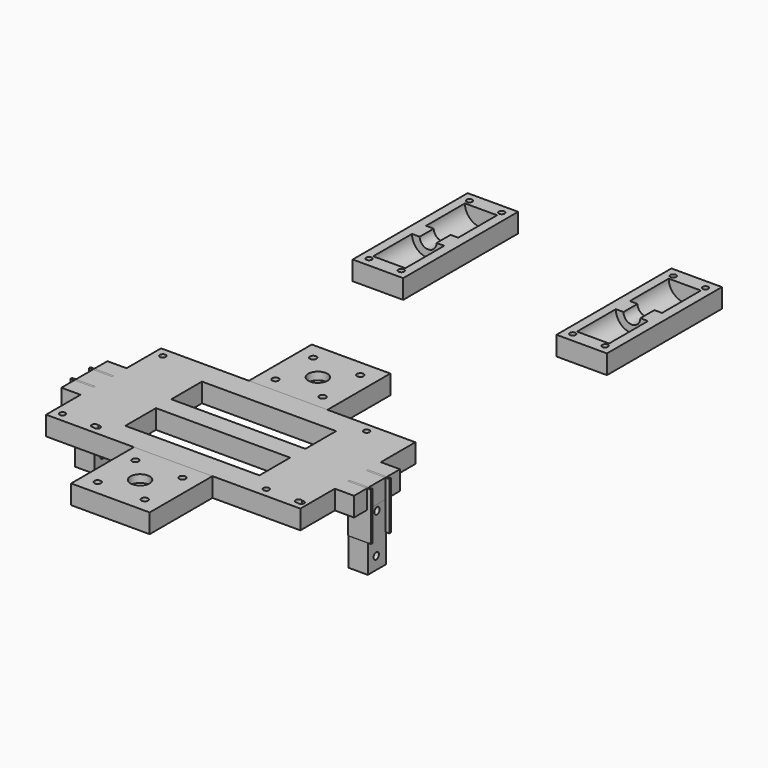
from build123d import *

# Parameters (mm, degrees)
CYLINDER013_R           = 1.5
CYLINDER013_DEPTH       = 10
CYLINDER012_R           = 1.5
CYLINDER012_DEPTH       = 10
CYLINDER011_R           = 1.5
CYLINDER011_DEPTH       = 10
CYLINDER010_R           = 1.5
CYLINDER010_DEPTH       = 10
CYLINDER009_R           = 8.4
CYLINDER009_DEPTH       = 25.35
CYLINDER009_ROLL_ANGLE  = 90
CYLINDER008_R           = 4.4
CYLINDER008_DEPTH       = 9.5
CYLINDER008_ROLL_ANGLE  = 90
CYLINDER007_R           = 8.4
CYLINDER007_DEPTH       = 25.35
CYLINDER007_ROLL_ANGLE  = 90
BOX010_W                = 26.35
BOX010_H                = 75
BOX010_DEPTH            = 10
CUT017_PLACEMENT_ANGLE  = 180
ARRAY001_X_COUNT        = 2
ARRAY001_X_PITCH        = 106.35
BOX012_W                = 36
BOX012_H                = 36
BOX012_DEPTH            = 6
CYLINDER018_R           = 5
CYLINDER018_DEPTH       = 10
CYLINDER017_R           = 1.7
CYLINDER017_DEPTH       = 10
CYLINDER016_R           = 1.7
CYLINDER016_DEPTH       = 10
CYLINDER014_R           = 1.7
CYLINDER014_DEPTH       = 10
CYLINDER015_R           = 1.7
CYLINDER015_DEPTH       = 10
BOX011_W                = 41
BOX011_H                = 41
BOX011_DEPTH            = 10
ARRAY002_Y_COUNT        = 2
ARRAY002_Y_PITCH        = 116
BOX007_W                = 10
BOX007_H                = 30
BOX007_DEPTH            = 10
BOX006_W                = 10
BOX006_H                = 30
BOX006_DEPTH            = 10
CYLINDER001_R           = 1.5
CYLINDER001_DEPTH       = 10
CYLINDER006_R           = 4.4
CYLINDER006_DEPTH       = 9.5
CYLINDER006_ROLL_ANGLE  = 90
CYLINDER005_R           = 8.4
CYLINDER005_DEPTH       = 25.35
CYLINDER005_ROLL_ANGLE  = 90
CYLINDER004_R           = 8.4
CYLINDER004_DEPTH       = 25.35
CYLINDER004_ROLL_ANGLE  = 90
CYLINDER003_R           = 1.5
CYLINDER003_DEPTH       = 10
CYLINDER002_R           = 1.5
CYLINDER002_DEPTH       = 10
CYLINDER_R              = 1.5
CYLINDER_DEPTH          = 10
BOX_W                   = 26.35
BOX_H                   = 75
BOX_DEPTH               = 10
ARRAY_X_COUNT           = 2
ARRAY_X_PITCH           = 106.35
BOX003_W                = 70
BOX003_H                = 20
BOX003_DEPTH            = 10
BOX002_W                = 70
BOX002_H                = 20
BOX002_DEPTH            = 10
BOX001_W                = 80
BOX001_H                = 75
BOX001_DEPTH            = 10
BOX018_W                = 12
BOX018_H                = 1
BOX018_DEPTH            = 25
BOX017_W                = 12
BOX017_H                = 1
BOX017_DEPTH            = 25
BOX014_W                = 12
BOX014_H                = 1
BOX014_DEPTH            = 25
CYLINDER019_R           = 1.75
CYLINDER019_DEPTH       = 10
CYLINDER019_PITCH_ANGLE = 90
CYLINDER020_R           = 1.75
CYLINDER020_DEPTH       = 10
CYLINDER020_PITCH_ANGLE = 90
BOX016_W                = 10
BOX016_H                = 12
BOX016_DEPTH            = 30
ARRAY003_X_COUNT        = 2
ARRAY003_X_PITCH        = 142.7
BOX015_W                = 12
BOX015_H                = 1
BOX015_DEPTH            = 25


with BuildPart() as cilindro013:
    # Cylinder013 → Cylinder013 (new body)
    with BuildSketch(Plane(origin=(21.6, 70.25, 0), x_dir=(1, 0, 0), z_dir=(0, 0, 1))):
        Circle(CYLINDER013_R)
    extrude(amount=CYLINDER013_DEPTH)


with BuildPart() as cilindro012:
    # Cylinder012 → Cylinder012 (new body)
    with BuildSketch(Plane(origin=(4.75, 70.25, 0), x_dir=(1, 0, 0), z_dir=(0, 0, 1))):
        Circle(CYLINDER012_R)
    extrude(amount=CYLINDER012_DEPTH)


with BuildPart() as cilindro011:
    # Cylinder011 → Cylinder011 (new body)
    with BuildSketch(Plane(origin=(4.75, 4.75, 0), x_dir=(1, 0, 0), z_dir=(0, 0, 1))):
        Circle(CYLINDER011_R)
    extrude(amount=CYLINDER011_DEPTH)


with BuildPart() as cilindro010:
    # Cylinder010 → Cylinder010 (new body)
    with BuildSketch(Plane(origin=(21.6, 4.75, 0), x_dir=(1, 0, 0), z_dir=(0, 0, 1))):
        Circle(CYLINDER010_R)
    extrude(amount=CYLINDER010_DEPTH)


with BuildPart() as cilindro009:
    # Cylinder009 → Cylinder009 (new body)
    with BuildSketch(Plane.XY):
        Circle(CYLINDER009_R)
    extrude(amount=CYLINDER009_DEPTH)


with BuildPart() as cilindro009_1:
    # Cylinder009 roll: moved
    add(cilindro009.part.rotate(Axis((0, 0, 0), (1, 0, 0)), CYLINDER009_ROLL_ANGLE))


with BuildPart() as cilindro009_2:
    # Cylinder009 placement: moved
    add(cilindro009_1.part.moved(Location((13.175, 32.75, 0))))


with BuildPart() as cilindro008:
    # Cylinder008 → Cylinder008 (new body)
    with BuildSketch(Plane.XY):
        Circle(CYLINDER008_R)
    extrude(amount=CYLINDER008_DEPTH)


with BuildPart() as cilindro008_1:
    # Cylinder008 roll: moved
    add(cilindro008.part.rotate(Axis((0, 0, 0), (1, 0, 0)), CYLINDER008_ROLL_ANGLE))


with BuildPart() as cilindro008_2:
    # Cylinder008 placement: moved
    add(cilindro008_1.part.moved(Location((13.175, 42.25, 0))))


with BuildPart() as cilindro007:
    # Cylinder007 → Cylinder007 (new body)
    with BuildSketch(Plane.XY):
        Circle(CYLINDER007_R)
    extrude(amount=CYLINDER007_DEPTH)


with BuildPart() as cilindro007_1:
    # Cylinder007 roll: moved
    add(cilindro007.part.rotate(Axis((0, 0, 0), (1, 0, 0)), CYLINDER007_ROLL_ANGLE))


with BuildPart() as cilindro007_2:
    # Cylinder007 placement: moved
    add(cilindro007_1.part.moved(Location((13.175, 67.25, 0))))


with BuildPart() as obj1:
    # Box010 → Box010 (new body)
    with BuildSketch(Plane.XY):
        with Locations((13.175, 37.5)):
            Rectangle(BOX010_W, BOX010_H)
    extrude(amount=BOX010_DEPTH)

    # Cut011: cut Cilindro007
    add(cilindro007_2.part, mode=Mode.SUBTRACT)

    # Cut012: cut Cilindro008
    add(cilindro008_2.part, mode=Mode.SUBTRACT)

    # Cut013: cut Cilindro009
    add(cilindro009_2.part, mode=Mode.SUBTRACT)

    # Cut014: cut Cilindro010
    add(cilindro010.part, mode=Mode.SUBTRACT)

    # Cut015: cut Cilindro011
    add(cilindro011.part, mode=Mode.SUBTRACT)

    # Cut016: cut Cilindro012
    add(cilindro012.part, mode=Mode.SUBTRACT)

    # Cut017: cut Cilindro013
    add(cilindro013.part, mode=Mode.SUBTRACT)


with BuildPart() as obj1_1:
    # Cut017 placement: moved
    add(obj1.part.rotate(Axis((0, 0, 0), (0, 1, 0)), CUT017_PLACEMENT_ANGLE))

    # Array001 X: obj1_2


with BuildPart() as obj1_2:
    add(obj1_1.part)
    with Locations(*[(i * ARRAY001_X_PITCH, 0, 0) for i in range(1, ARRAY001_X_COUNT)]):
        add(obj1_1.part)


with BuildPart() as obj1_3:
    # Array001 placement: moved
    add(obj1_2.part.moved(Location((26.35, 200, 0))))


with BuildPart() as cubo005:
    # Box012 → Box012 (new body)
    with BuildSketch(Plane(origin=(2.5, 2, 0), x_dir=(1, 0, 0), z_dir=(0, 0, 1))):
        with Locations((18, 18)):
            Rectangle(BOX012_W, BOX012_H)
    extrude(amount=BOX012_DEPTH)


with BuildPart() as cilindro018:
    # Cylinder018 → Cylinder018 (new body)
    with BuildSketch(Plane(origin=(20, 20, 0), x_dir=(1, 0, 0), z_dir=(0, 0, 1))):
        Circle(CYLINDER018_R)
    extrude(amount=CYLINDER018_DEPTH)


with BuildPart() as cilindro017:
    # Cylinder017 → Cylinder017 (new body)
    with BuildSketch(Plane(origin=(32.3, 32.3, 0), x_dir=(1, 0, 0), z_dir=(0, 0, 1))):
        Circle(CYLINDER017_R)
    extrude(amount=CYLINDER017_DEPTH)


with BuildPart() as cilindro016:
    # Cylinder016 → Cylinder016 (new body)
    with BuildSketch(Plane(origin=(32.3, 7.7, 0), x_dir=(1, 0, 0), z_dir=(0, 0, 1))):
        Circle(CYLINDER016_R)
    extrude(amount=CYLINDER016_DEPTH)


with BuildPart() as cilindro014:
    # Cylinder014 → Cylinder014 (new body)
    with BuildSketch(Plane(origin=(7.7, 7.7, 0), x_dir=(1, 0, 0), z_dir=(0, 0, 1))):
        Circle(CYLINDER014_R)
    extrude(amount=CYLINDER014_DEPTH)


with BuildPart() as cilindro015:
    # Cylinder015 → Cylinder015 (new body)
    with BuildSketch(Plane(origin=(7.7, 32.3, 0), x_dir=(1, 0, 0), z_dir=(0, 0, 1))):
        Circle(CYLINDER015_R)
    extrude(amount=CYLINDER015_DEPTH)


with BuildPart() as array002:
    # Box011 → Box011 (new body)
    with BuildSketch(Plane.XY):
        with Locations((20.5, 20.5)):
            Rectangle(BOX011_W, BOX011_H)
    extrude(amount=BOX011_DEPTH)

    # Cut018: cut Cilindro015
    add(cilindro015.part, mode=Mode.SUBTRACT)

    # Cut019: cut Cilindro014
    add(cilindro014.part, mode=Mode.SUBTRACT)

    # Cut020: cut Cilindro016
    add(cilindro016.part, mode=Mode.SUBTRACT)

    # Cut021: cut Cilindro017
    add(cilindro017.part, mode=Mode.SUBTRACT)

    # Cut022: cut Cilindro018
    add(cilindro018.part, mode=Mode.SUBTRACT)

    # Cut023: cut Cubo005
    add(cubo005.part, mode=Mode.SUBTRACT)


with BuildPart() as array002_1:
    # Cut023 placement: moved
    add(array002.part.moved(Location((43.35, -46, 0))))

    # Array002 Y: Array002 ×2


with BuildPart() as array002_2:
    add(array002_1.part)
    with Locations(*[(0, i * ARRAY002_Y_PITCH, 0) for i in range(1, ARRAY002_Y_COUNT)]):
        add(array002_1.part)


with BuildPart() as array002_3:
    # Array002 placement: moved
    add(array002_2.part.moved(Location((2.5, 5, 0))))


with BuildPart() as obj2:
    # Box007 → Box007 (new body)
    with BuildSketch(Plane(origin=(132.7, 22.5, 0), x_dir=(1, 0, 0), z_dir=(0, 0, 1))):
        with Locations((5, 15)):
            Rectangle(BOX007_W, BOX007_H)
    extrude(amount=BOX007_DEPTH)


with BuildPart() as obj3:
    # Box006 → Box006 (new body)
    with BuildSketch(Plane(origin=(-10, 22.5, 0), x_dir=(1, 0, 0), z_dir=(0, 0, 1))):
        with Locations((5, 15)):
            Rectangle(BOX006_W, BOX006_H)
    extrude(amount=BOX006_DEPTH)


with BuildPart() as cilindro001:
    # Cylinder001 → Cylinder001 (new body)
    with BuildSketch(Plane(origin=(21.6, 4.75, 0), x_dir=(1, 0, 0), z_dir=(0, 0, 1))):
        Circle(CYLINDER001_R)
    extrude(amount=CYLINDER001_DEPTH)


with BuildPart() as cilindro006:
    # Cylinder006 → Cylinder006 (new body)
    with BuildSketch(Plane.XY):
        Circle(CYLINDER006_R)
    extrude(amount=CYLINDER006_DEPTH)


with BuildPart() as cilindro006_1:
    # Cylinder006 roll: moved
    add(cilindro006.part.rotate(Axis((0, 0, 0), (1, 0, 0)), CYLINDER006_ROLL_ANGLE))


with BuildPart() as cilindro006_2:
    # Cylinder006 placement: moved
    add(cilindro006_1.part.moved(Location((13.175, 39.5, 0))))


with BuildPart() as cilindro005:
    # Cylinder005 → Cylinder005 (new body)
    with BuildSketch(Plane.XY):
        Circle(CYLINDER005_R)
    extrude(amount=CYLINDER005_DEPTH)


with BuildPart() as cilindro005_1:
    # Cylinder005 roll: moved
    add(cilindro005.part.rotate(Axis((0, 0, 0), (1, 0, 0)), CYLINDER005_ROLL_ANGLE))


with BuildPart() as cilindro005_2:
    # Cylinder005 placement: moved
    add(cilindro005_1.part.moved(Location((13.175, 64.5, 0))))


with BuildPart() as fusion001:
    # Cylinder004 → Cylinder004 (new body)
    with BuildSketch(Plane.XY):
        Circle(CYLINDER004_R)
    extrude(amount=CYLINDER004_DEPTH)


with BuildPart() as fusion001_1:
    # Cylinder004 roll: moved
    add(fusion001.part.rotate(Axis((0, 0, 0), (1, 0, 0)), CYLINDER004_ROLL_ANGLE))


with BuildPart() as fusion001_2:
    # Cylinder004 placement: moved
    add(fusion001_1.part.moved(Location((13.175, 30, 0))))

    # Fusion: union Cilindro005
    add(cilindro005_2.part)

    # Fusion001: union Cilindro006
    add(cilindro006_2.part)


with BuildPart() as fusion001_3:
    # Fusion001 placement: moved
    add(fusion001_2.part.moved(Location((0, 2.75, 0))))


with BuildPart() as cilindro003:
    # Cylinder003 → Cylinder003 (new body)
    with BuildSketch(Plane(origin=(23.142473, 4.562622, 6e-06), x_dir=(1, 0, 0), z_dir=(0, 0, 1))):
        Circle(CYLINDER003_R)
    extrude(amount=CYLINDER003_DEPTH)


with BuildPart() as cilindro002:
    # Cylinder002 → Cylinder002 (new body)
    with BuildSketch(Plane(origin=(4.75, 70.25, 0), x_dir=(1, 0, 0), z_dir=(0, 0, 1))):
        Circle(CYLINDER002_R)
    extrude(amount=CYLINDER002_DEPTH)


with BuildPart() as cilindro:
    # Cylinder → Cylinder (new body)
    with BuildSketch(Plane(origin=(4.75, 4.75, 0), x_dir=(1, 0, 0), z_dir=(0, 0, 1))):
        Circle(CYLINDER_R)
    extrude(amount=CYLINDER_DEPTH)


with BuildPart() as cut002:
    # Box → Box (new body)
    with BuildSketch(Plane.XY):
        with Locations((13.175, 37.5)):
            Rectangle(BOX_W, BOX_H)
    extrude(amount=BOX_DEPTH)

    # Cut: cut Cilindro
    add(cilindro.part, mode=Mode.SUBTRACT)

    # Cut001: cut Cilindro002
    add(cilindro002.part, mode=Mode.SUBTRACT)

    # Cut002: cut Cilindro003
    add(cilindro003.part, mode=Mode.SUBTRACT)


with BuildPart() as cut003:
    # Cut003 base: copy of Cut002
    add(cut002.part)

    # Cut003: cut Cilindro001
    add(cilindro001.part, mode=Mode.SUBTRACT)


with BuildPart() as obj4:
    # Cut004 base: copy of Cut002
    add(cut002.part)

    # Cut004: cut Cilindro001
    add(cilindro001.part, mode=Mode.SUBTRACT)

    # Fusion002: union Cut003
    add(cut003.part)

    # Cut005: cut Fusion001
    add(fusion001_3.part, mode=Mode.SUBTRACT)

    # Cut006: cut Cilindro001
    add(cilindro001.part, mode=Mode.SUBTRACT)

    # Array X: obj4 ×2


with BuildPart() as obj4_1:
    add(obj4.part)
    with Locations(*[(i * ARRAY_X_PITCH, 0, 0) for i in range(1, ARRAY_X_COUNT)]):
        add(obj4.part)

    # Fusion005: union obj3
    add(obj3.part)

    # Fusion006: union obj2
    add(obj2.part)


with BuildPart() as obj5:
    # Box003 → Box003 (new body)
    with BuildSketch(Plane(origin=(31.35, 42.5, 0), x_dir=(1, 0, 0), z_dir=(0, 0, 1))):
        with Locations((35, 10)):
            Rectangle(BOX003_W, BOX003_H)
    extrude(amount=BOX003_DEPTH)


with BuildPart() as obj6:
    # Box002 → Box002 (new body)
    with BuildSketch(Plane(origin=(31.35, 12.5, 0), x_dir=(1, 0, 0), z_dir=(0, 0, 1))):
        with Locations((35, 10)):
            Rectangle(BOX002_W, BOX002_H)
    extrude(amount=BOX002_DEPTH)


with BuildPart() as fusion007:
    # Box001 → Box001 (new body)
    with BuildSketch(Plane(origin=(26.35, 0, 0), x_dir=(1, 0, 0), z_dir=(0, 0, 1))):
        with Locations((40, 37.5)):
            Rectangle(BOX001_W, BOX001_H)
    extrude(amount=BOX001_DEPTH)

    # Cut007: cut obj6
    add(obj6.part, mode=Mode.SUBTRACT)

    # Cut008: cut obj5
    add(obj5.part, mode=Mode.SUBTRACT)

    # Fusion007: union obj4
    add(obj4_1.part)


with BuildPart() as cubo011:
    # Box018 → Box018 (new body)
    with BuildSketch(Plane(origin=(-12, 43, -15), x_dir=(1, 0, 0), z_dir=(0, 0, 1))):
        with Locations((6, 0.5)):
            Rectangle(BOX018_W, BOX018_H)
    extrude(amount=BOX018_DEPTH)


with BuildPart() as cubo010:
    # Box017 → Box017 (new body)
    with BuildSketch(Plane(origin=(-12, 31, -15), x_dir=(1, 0, 0), z_dir=(0, 0, 1))):
        with Locations((6, 0.5)):
            Rectangle(BOX017_W, BOX017_H)
    extrude(amount=BOX017_DEPTH)


with BuildPart() as cubo007:
    # Box014 → Box014 (new body)
    with BuildSketch(Plane(origin=(132.7, 31, -15), x_dir=(1, 0, 0), z_dir=(0, 0, 1))):
        with Locations((6, 0.5)):
            Rectangle(BOX014_W, BOX014_H)
    extrude(amount=BOX014_DEPTH)


with BuildPart() as cilindro019:
    # Cylinder019 → Cylinder019 (new body)
    with BuildSketch(Plane.XY):
        Circle(CYLINDER019_R)
    extrude(amount=CYLINDER019_DEPTH)


with BuildPart() as cilindro019_1:
    # Cylinder019 pitch: moved
    add(cilindro019.part.rotate(Axis((0, 0, 0), (0, 1, 0)), CYLINDER019_PITCH_ANGLE))


with BuildPart() as cilindro019_2:
    # Cylinder019 placement: moved
    add(cilindro019_1.part.moved(Location((-10, 37.5, -3))))


with BuildPart() as cilindro020:
    # Cylinder020 → Cylinder020 (new body)
    with BuildSketch(Plane.XY):
        Circle(CYLINDER020_R)
    extrude(amount=CYLINDER020_DEPTH)


with BuildPart() as cilindro020_1:
    # Cylinder020 pitch: moved
    add(cilindro020.part.rotate(Axis((0, 0, 0), (0, 1, 0)), CYLINDER020_PITCH_ANGLE))


with BuildPart() as cilindro020_2:
    # Cylinder020 placement: moved
    add(cilindro020_1.part.moved(Location((-10, 37, -23.5))))


with BuildPart() as array003:
    # Box016 → Box016 (new body)
    with BuildSketch(Plane(origin=(-10, 31.5, -30), x_dir=(1, 0, 0), z_dir=(0, 0, 1))):
        with Locations((5, 6)):
            Rectangle(BOX016_W, BOX016_H)
    extrude(amount=BOX016_DEPTH)

    # Cut024: cut Cilindro020
    add(cilindro020_2.part, mode=Mode.SUBTRACT)

    # Cut025: cut Cilindro019
    add(cilindro019_2.part, mode=Mode.SUBTRACT)

    # Array003 X: Array003 ×2


with BuildPart() as array003_1:
    add(array003.part)
    with Locations(*[(i * ARRAY003_X_PITCH, 0, 0) for i in range(1, ARRAY003_X_COUNT)]):
        add(array003.part)


with BuildPart() as fusion010:
    # Box015 → Box015 (new body)
    with BuildSketch(Plane(origin=(132.7, 43, -15), x_dir=(1, 0, 0), z_dir=(0, 0, 1))):
        with Locations((6, 0.5)):
            Rectangle(BOX015_W, BOX015_H)
    extrude(amount=BOX015_DEPTH)

    # Fusion009: union Cubo007, Array003
    add(cubo007.part)
    add(array003_1.part)

    # Fusion010: union Cubo011, Cubo010
    add(cubo011.part)
    add(cubo010.part)


solid = Compound([obj1_3.part, array002_3.part, fusion007.part, fusion010.part])
